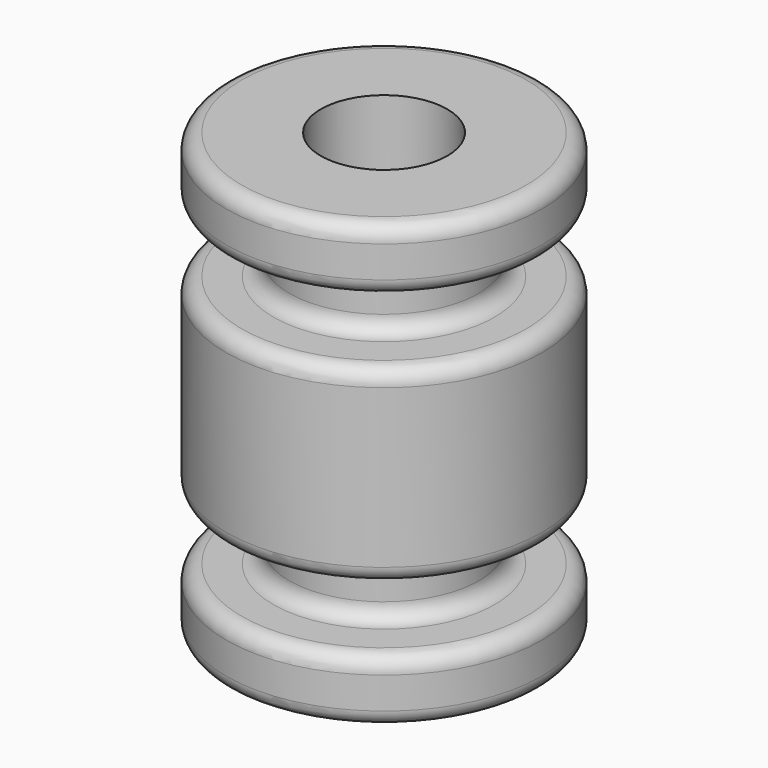
from build123d import *

# Parameters (mm, degrees)
F2_R     = 2
F3_DEPTH = 50
F4_R     = 0.5


with BuildPart() as f1:
    # F0 (on Front) → F1 (revolve)
    with BuildSketch(Plane.XZ):
        Polygon((0, -7), (0, 7), (-5, 7), (-5, 5), (-3, 5), (-3, 3), (-5, 3), (-5, -3), (-3, -3), (-3, -5), (-5, -5), (-5, -7), align=None)
    revolve(axis=Axis((0, 0, 0), (0, 0, 1)))

    # F2 (on Top) → F3 (cut, symmetric)
    with BuildSketch(Plane.XY):
        Circle(F2_R)
    extrude(amount=F3_DEPTH, both=True, mode=Mode.SUBTRACT)

    # F4
    f4_edges = [f1.edges().sort_by_distance(p)[0] for p in [
        (5, 0, 7),
        (5, 0, 5),
        (-5, 0, 6),
        (5, 0, 3),
        (5, 0, -3),
        (-5, 0, 0),
        (5, 0, -5),
        (5, 0, -7),
        (-5, 0, -6),
        (3, 0, -3),
        (3, 0, -5),
        (-3, 0, -4),
        (3, 0, 5),
        (3, 0, 3),
        (-3, 0, 4),
    ]]
    fillet(f4_edges, radius=F4_R)


solid = f1.part
